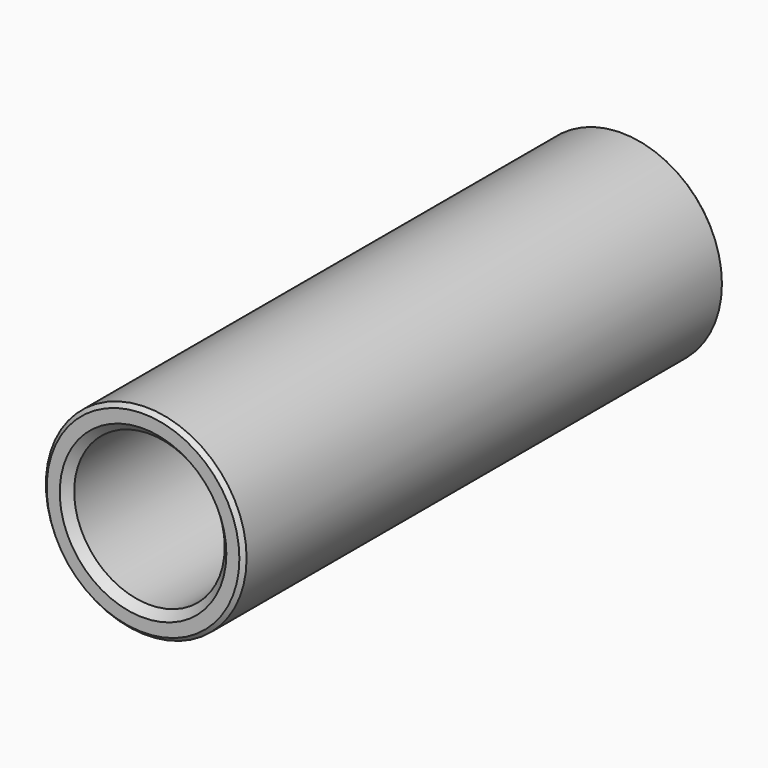
from build123d import *

# Parameters (mm, degrees)
F0_R          = 12.7
F0_R_2        = 9.525
F1_DEPTH      = 38.1
F1_DEPTH_BACK = 38.1
F2_SIZE       = 1.016
F3_SIZE       = 0.508


with BuildPart() as f1:
    # F0 (on Front) → F1 (new body, two sides)
    with BuildSketch(Plane.XZ) as f1_sk:
        Circle(F0_R)
        Circle(F0_R_2, mode=Mode.SUBTRACT)
    extrude(amount=F1_DEPTH)
    extrude(f1_sk.sketch, amount=-F1_DEPTH_BACK)

    # F2
    f2_edges = [f1.edges().sort_by_distance(p)[0] for p in [
        (-9.525, -38.1, 0),
        (-9.525, 38.1, 0),
    ]]
    chamfer(f2_edges, length=F2_SIZE)

    # F3
    f3_edges = [f1.edges().sort_by_distance(p)[0] for p in [
        (-12.7, 38.1, 0),
        (-12.7, -38.1, 0),
    ]]
    chamfer(f3_edges, length=F3_SIZE)


solid = f1.part
